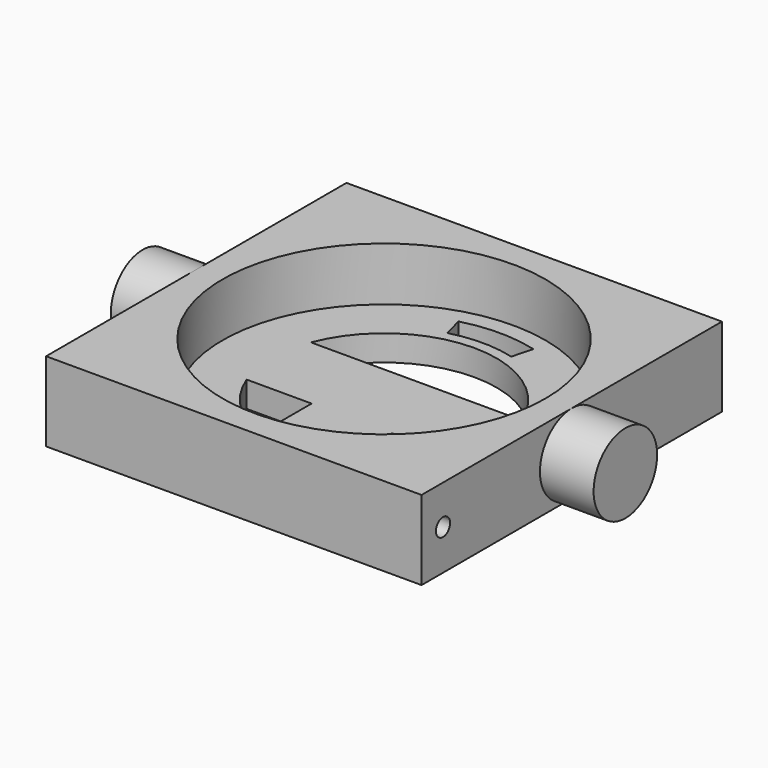
from build123d import *

# Parameters (mm, degrees)
BOX001_W               = 50
BOX001_H               = 15
BOX001_DEPTH           = 4.8
CYLINDER006_R          = 7.4
CYLINDER006_DEPTH      = 10
BOX002_W               = 15
BOX002_H               = 21.5
BOX002_DEPTH           = 4.8
CYLINDER005_R          = 7.4
CYLINDER005_DEPTH      = 10
CYLINDER002_W          = 23
CYLINDER002_H          = 4.8
CYLINDER002_ANGLE      = 30
CYLINDER001_W          = 27
CYLINDER001_H          = 4.8
CYLINDER001_ANGLE      = 30
CUT001_PLACEMENT_ANGLE = 105
CYLINDER010_R          = 1.65
CYLINDER010_DEPTH      = 10
CYLINDER012_R          = 1.65
CYLINDER012_DEPTH      = 10
CYLINDER013_R          = 21
CYLINDER013_DEPTH      = 4.8
CYLINDER004_W          = 23
CYLINDER004_H          = 4.8
CYLINDER004_ANGLE      = 30
CYLINDER003_W          = 27
CYLINDER003_H          = 4.8
CYLINDER003_ANGLE      = 30
CUT002_PLACEMENT_ANGLE = 75
CYLINDER_R             = 30.1
CYLINDER_DEPTH         = 10
BOX_W                  = 70
BOX_H                  = 70
BOX_DEPTH              = 14.8


with BuildPart() as obj1:
    # Box001 → Box001 (new body)
    with BuildSketch(Plane(origin=(-25, -7.5, 0), x_dir=(1, 0, 0), z_dir=(0, 0, 1))):
        with Locations((25, 7.5)):
            Rectangle(BOX001_W, BOX001_H)
    extrude(amount=BOX001_DEPTH)


with BuildPart() as cylinder006:
    # Cylinder006 → Cylinder006 (new body)
    with BuildSketch(Plane(origin=(35, 0, 7.4), x_dir=(0, 0, -1), z_dir=(1, 0, 0))):
        Circle(CYLINDER006_R)
    extrude(amount=CYLINDER006_DEPTH)


with BuildPart() as obj2:
    # Box002 → Box002 (new body)
    with BuildSketch(Plane(origin=(-7.5, -21.5, 0), x_dir=(1, 0, 0), z_dir=(0, 0, 1))):
        with Locations((7.5, 10.75)):
            Rectangle(BOX002_W, BOX002_H)
    extrude(amount=BOX002_DEPTH)


with BuildPart() as fusion001:
    # Cylinder005 → Cylinder005 (new body)
    with BuildSketch(Plane(origin=(-45, 0, 7.4), x_dir=(0, 0, -1), z_dir=(1, 0, 0))):
        Circle(CYLINDER005_R)
    extrude(amount=CYLINDER005_DEPTH)

    # Fusion001: union obj1, Cylinder006, obj2
    add(obj1.part)
    add(cylinder006.part)
    add(obj2.part)


with BuildPart() as zylinder002:
    # Cylinder002 → Cylinder002 (revolve)
    with BuildSketch(Plane.XZ):
        with Locations((11.5, 2.4)):
            Rectangle(CYLINDER002_W, CYLINDER002_H)
    revolve(axis=Axis((0, 0, 0), (0, 0, 1)), revolution_arc=CYLINDER002_ANGLE)


with BuildPart() as cut004:
    # Cylinder001 → Cylinder001 (revolve)
    with BuildSketch(Plane.XZ):
        with Locations((13.5, 2.4)):
            Rectangle(CYLINDER001_W, CYLINDER001_H)
    revolve(axis=Axis((0, 0, 0), (0, 0, 1)), revolution_arc=CYLINDER001_ANGLE)

    # Cut001: cut Zylinder002
    add(zylinder002.part, mode=Mode.SUBTRACT)


with BuildPart() as cut004_1:
    # Cut001 placement: moved
    add(cut004.part.rotate(Axis((0, 0, 0), (0, 0, -1)), CUT001_PLACEMENT_ANGLE))


with BuildPart() as cylinder010:
    # Cylinder010 → Cylinder010 (new body)
    with BuildSketch(Plane(origin=(-35, -30, 7.5), x_dir=(0, 0, -1), z_dir=(1, 0, 0))):
        Circle(CYLINDER010_R)
    extrude(amount=CYLINDER010_DEPTH)


with BuildPart() as cylinder012:
    # Cylinder012 → Cylinder012 (new body)
    with BuildSketch(Plane(origin=(25, -30, 7.5), x_dir=(0, 0, -1), z_dir=(1, 0, 0))):
        Circle(CYLINDER012_R)
    extrude(amount=CYLINDER012_DEPTH)


with BuildPart() as cylinder013:
    # Cylinder013 → Cylinder013 (new body)
    with BuildSketch(Plane.XY):
        Circle(CYLINDER013_R)
    extrude(amount=CYLINDER013_DEPTH)


with BuildPart() as zylinder004:
    # Cylinder004 → Cylinder004 (revolve)
    with BuildSketch(Plane.XZ):
        with Locations((11.5, 2.4)):
            Rectangle(CYLINDER004_W, CYLINDER004_H)
    revolve(axis=Axis((0, 0, 0), (0, 0, 1)), revolution_arc=CYLINDER004_ANGLE)


with BuildPart() as obj3:
    # Cylinder003 → Cylinder003 (revolve)
    with BuildSketch(Plane.XZ):
        with Locations((13.5, 2.4)):
            Rectangle(CYLINDER003_W, CYLINDER003_H)
    revolve(axis=Axis((0, 0, 0), (0, 0, 1)), revolution_arc=CYLINDER003_ANGLE)

    # Cut002: cut Zylinder004
    add(zylinder004.part, mode=Mode.SUBTRACT)


with BuildPart() as obj3_1:
    # Cut002 placement: moved
    add(obj3.part.rotate(Axis((0, 0, 0), (0, 0, 1)), CUT002_PLACEMENT_ANGLE))

    # Fusion: union Cut004, Cylinder010, Cylinder012, Cylinder013
    add(cut004_1.part)
    add(cylinder010.part)
    add(cylinder012.part)
    add(cylinder013.part)


with BuildPart() as zylinder:
    # Cylinder → Cylinder (new body)
    with BuildSketch(Plane.XY.offset(4.8)):
        Circle(CYLINDER_R)
    extrude(amount=CYLINDER_DEPTH)


with BuildPart() as fusion002:
    # Box → Box (new body)
    with BuildSketch(Plane(origin=(-35, -35, 0), x_dir=(1, 0, 0), z_dir=(0, 0, 1))):
        with Locations((35, 35)):
            Rectangle(BOX_W, BOX_H)
    extrude(amount=BOX_DEPTH)

    # Cut: cut Zylinder
    add(zylinder.part, mode=Mode.SUBTRACT)

    # Cut003: cut obj3
    add(obj3_1.part, mode=Mode.SUBTRACT)

    # Fusion002: union Fusion001
    add(fusion001.part)


solid = fusion002.part
